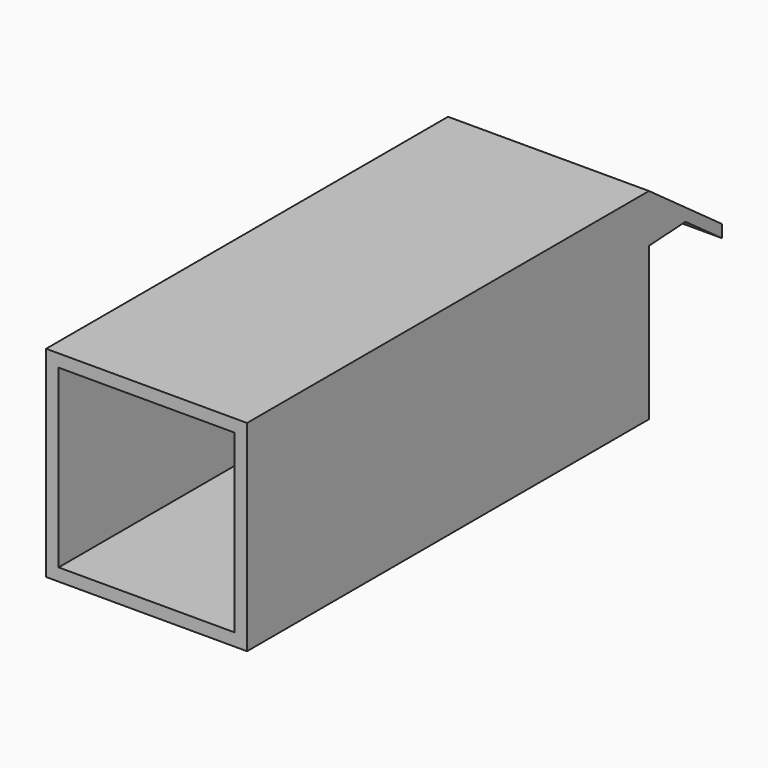
from build123d import *

# Parameters (mm, degrees)
F0_W     = 40
F0_H     = 40
F0_W_2   = 35
F0_H_2   = 35
F1_DEPTH = 100
F3_DEPTH = 40
F5_DEPTH = 2.5
F7_DEPTH = 2.5


with BuildPart() as f1:
    # F0 (on Front) → F1 (new body)
    with BuildSketch(Plane.XZ):
        with Locations((-44.507358, -17.5)):
            Rectangle(F0_W, F0_H)
        with Locations((-44.507358, -17.5)):
            Rectangle(F0_W_2, F0_H_2, mode=Mode.SUBTRACT)
    extrude(amount=F1_DEPTH)

    # F2 (on face) → F3 (join)
    with BuildSketch(Plane(origin=(-64.507358, 0, 0), x_dir=(0, -1, 0), z_dir=(-1, 0, 0))):
        Polygon((0, 0), (0, 2.5), (-18.149041, -10.649037), (-18.149041, -13.149037), align=None)
    extrude(amount=-F3_DEPTH)

    # F4 (on face) → F5 (join)
    with BuildSketch(Plane(origin=(-64.507358, 0, 0), x_dir=(0, -1, 0), z_dir=(-1, 0, 0))):
        Polygon((0, 0), (-9.484176, -6.871315), (0, -6.871315), align=None)
    extrude(amount=-F5_DEPTH)

    # F6 (on face) → F7 (join)
    with BuildSketch(Plane.YZ.offset(-24.507358)):
        Polygon((9.07452, -6.574518), (0, 0), (0, -7.108711), align=None)
    extrude(amount=-F7_DEPTH)


solid = f1.part
